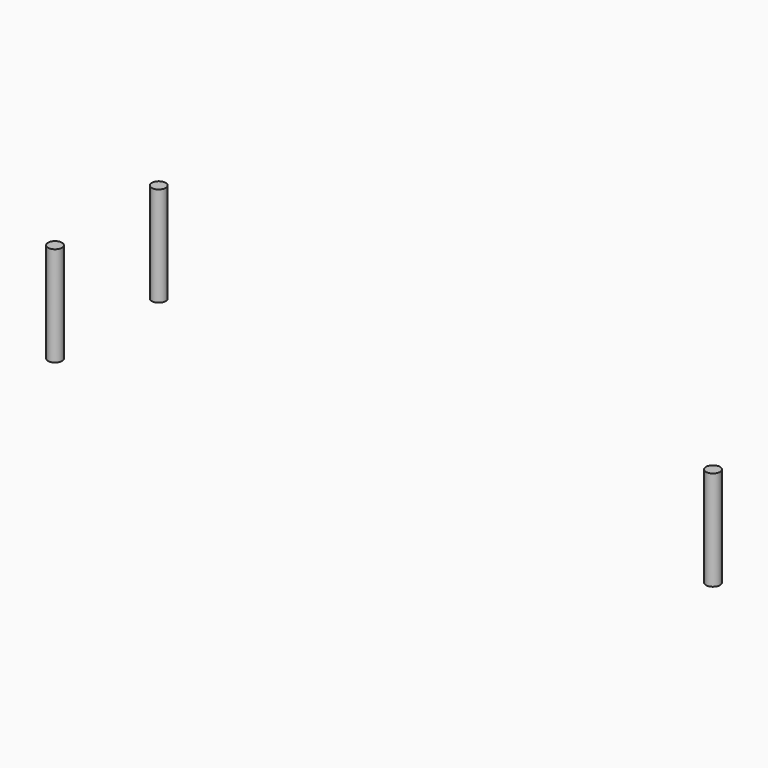
from build123d import *

# Parameters (mm, degrees)
CYLINDER013_R     = 0.7
CYLINDER013_DEPTH = 10
CYLINDER012_R     = 0.7
CYLINDER012_DEPTH = 10
CYLINDER014_R     = 0.7
CYLINDER014_DEPTH = 10


with BuildPart() as cylinder013:
    # Cylinder013 → Cylinder013 (new body)
    with BuildSketch(Plane(origin=(-34, 1.5, 0), x_dir=(1, 0, 0), z_dir=(0, 0, 1))):
        Circle(CYLINDER013_R)
    extrude(amount=CYLINDER013_DEPTH)


with BuildPart() as cylinder012:
    # Cylinder012 → Cylinder012 (new body)
    with BuildSketch(Plane(origin=(-34, 14.5, 0), x_dir=(1, 0, 0), z_dir=(0, 0, 1))):
        Circle(CYLINDER012_R)
    extrude(amount=CYLINDER012_DEPTH)


with BuildPart() as fusion003007:
    # Cylinder014 → Cylinder014 (new body)
    with BuildSketch(Plane(origin=(30, 4, 0), x_dir=(1, 0, 0), z_dir=(0, 0, 1))):
        Circle(CYLINDER014_R)
    extrude(amount=CYLINDER014_DEPTH)

    # Fusion003007: union Cylinder013, Cylinder012
    add(cylinder013.part)
    add(cylinder012.part)


solid = fusion003007.part
